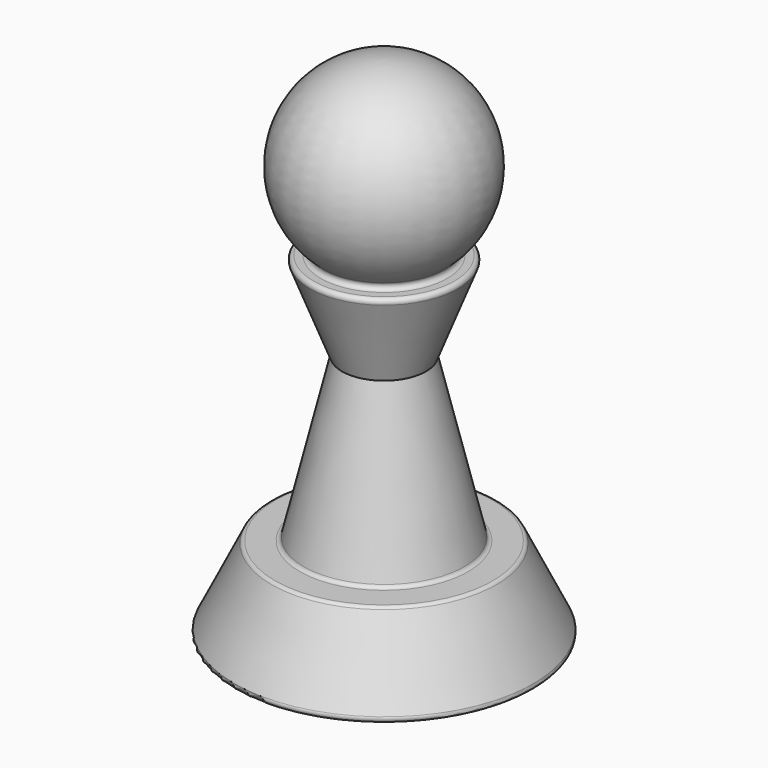
from build123d import *


with BuildPart() as f1:
    # F0 (on Front) → F1 (revolve)
    with BuildSketch(Plane.XZ):
        with BuildLine():
            Line((0, 20.015915), (0, 31.75))
            ThreePointArc((0, 31.75), (-5.506719, 27.907366), (-3.80016, 21.41295))
            ThreePointArc((-3.80016, 21.41295), (-3.726279, 21.131789), (-3.96468, 20.965431))
            Line((-3.96468, 20.965431), (-4.412634, 20.965431))
            ThreePointArc((-4.412634, 20.965431), (-4.622164, 20.855003), (-4.649506, 20.619738))
            Line((-4.649506, 20.619738), (-2.630741, 15.404593))
            Line((-2.630741, 15.404593), (-5.033413, 5.418484))
            ThreePointArc((-5.033413, 5.418484), (-5.123166, 5.278392), (-5.280366, 5.223901))
            Line((-5.280366, 5.223901), (-6.822842, 5.223901))
            ThreePointArc((-6.822842, 5.223901), (-6.957517, 5.185258), (-7.051214, 5.081087))
            Line((-7.051214, 5.081087), (-9.347205, 0.365186))
            ThreePointArc((-9.347205, 0.365186), (-9.33419, 0.119325), (-9.118833, 0))
            Line((-9.118833, 0), (0, 0))
            Line((0, 0), (0, 5.223901))
            Line((0, 5.223901), (0, 20.015915))
        make_face()
    revolve(axis=Axis((0, 0, 25.882957), (0, 0, -1)))


solid = f1.part
